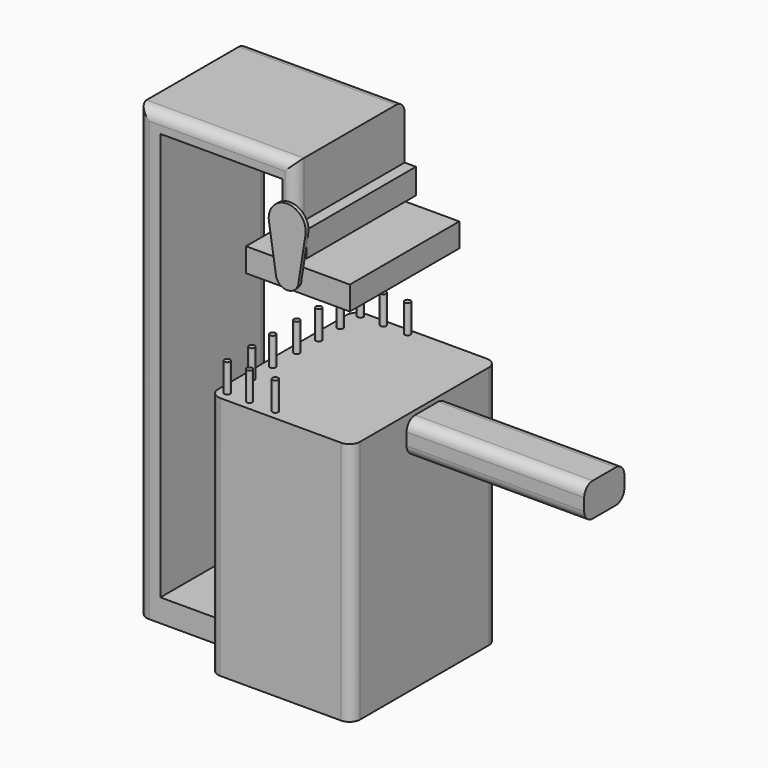
from build123d import *

# Parameters (mm, degrees)
F0_W      = 14.1155663878
F0_H      = 9.4103775918
F1_DEPTH  = 50
F2_W      = 51.2617919594
F2_H      = 68.8443407416
F3_DEPTH  = 40
F4_W      = 38.3844356984
F4_H      = 6.4386762679
F5_DEPTH  = 25
F6_W      = 6.2752501667
F6_H      = 38.3844356984
F7_DEPTH  = 120
F8_W      = 38.3844356984
F8_H      = 5.1532968879
F9_DEPTH  = 38
F10_W     = 3.5778277665
F10_H     = 38.3844356984
F11_DEPTH = 15
F12_W     = 3.5778277665
F12_H     = 4.6407681704
F13_DEPTH = 38.41
F14_W     = 29.2216986418
F14_H     = 6.686322391
F15_DEPTH = 38.5
F16_R     = 0.8165203792
F17_DEPTH = 8
F19_DEPTH = 1
F20_R     = 3


with BuildPart() as f1:
    # F0 (on Right) → F1 (new body)
    with BuildSketch(Plane.YZ):
        with Locations((0.3714626655, -0.0025788322)):
            Rectangle(F0_W, F0_H)
    extrude(amount=F1_DEPTH)

    # F2 (on face) → F3 (join)
    with BuildSketch(Plane(origin=(0, 0, 0), x_dir=(0, -1, 0), z_dir=(-1, 0, 0))):
        with Locations((0.3714608029, -28.4813530743)):
            Rectangle(F2_W, F2_H)
    extrude(amount=F3_DEPTH)

    # F4 (on face) → F5 (join)
    with BuildSketch(Plane(origin=(-40, 0, 0), x_dir=(0, -1, 0), z_dir=(-1, 0, 0))):
        with Locations((0.6842287257, -56.2172029167)):
            Rectangle(F4_W, F4_H)
    extrude(amount=F5_DEPTH)

    # F6 (on face) → F7 (join)
    with BuildSketch(Plane.XY.offset(-52.9978647828)):
        with Locations((-61.8623749167, -0.6842287257)):
            Rectangle(F6_W, F6_H)
    extrude(amount=F7_DEPTH)

    # F8 (on face) → F9 (join)
    with BuildSketch(Plane.YZ.offset(-58.7247498333)):
        with Locations((-0.6842287257, 64.4254867733)):
            Rectangle(F8_W, F8_H)
    extrude(amount=F9_DEPTH)

    # F10 (on face) → F11 (join)
    with BuildSketch(Plane(origin=(0, 0, 61.8488383293), x_dir=(1, 0, 0), z_dir=(0, 0, -1))):
        with Locations((-22.5136637166, 0.6842287257)):
            Rectangle(F10_W, F10_H)
    extrude(amount=F11_DEPTH)

    # F12 (on face) → F13 (join)
    with BuildSketch(Plane.XZ.offset(19.8764465749)):
        Polygon((-24.3025775999, 51.4896064997), (-27.0836036652, 51.4896064997), (-27.0836036652, 44.3622171879), (-17.5488386303, 44.3622171879), (-17.5488386303, 51.4896064997), (-20.7247498333, 51.4896064997), (-20.7247498333, 46.8488383293), (-24.3025775999, 46.8488383293), align=None)
        with Locations((-22.5136637166, 49.1692224145)):
            Rectangle(F12_W, F12_H)
    extrude(amount=-F13_DEPTH)

    # F16 (on face) → F17 (join)
    with BuildSketch(Plane.XY.offset(5.9408172965)):
        with Locations((-37.3312607408, 23.7445700914)):
            Circle(F16_R)
        with Locations((-30.7396166027, 23.5925223678)):
            Circle(F16_R)
        with Locations((-23.9719599485, 23.6466173083)):
            Circle(F16_R)
        with Locations((-37.4450609088, 16.7587026954)):
            Circle(F16_R)
        with Locations((-37.426199764, 9.2057716101)):
            Circle(F16_R)
        with Locations((-37.4512858689, 1.5258083586)):
            Circle(F16_R)
        with Locations((-37.3307578266, -23.0821233708)):
            Circle(F16_R)
        with Locations((-37.3979955912, -7.0219798945)):
            Circle(F16_R)
        with Locations((-37.2774675488, -14.4946947694)):
            Circle(F16_R)
        with Locations((-31.0100317001, -23.1726877391)):
            Circle(F16_R)
        with Locations((-23.6578416079, -23.2932139188)):
            Circle(F16_R)
    extrude(amount=F17_DEPTH)

    # F20
    f20_edges = [f1.edges().sort_by_distance(p)[0] for p in [
        (-65, -19.876447, 3.782797),
        (-42.862375, -19.876447, 67.002135),
        (-20.72475, -19.876447, 59.245871),
        (-40, -26.002357, -28.481353),
        (25, -6.686321, 4.70261),
        (25, -6.686321, -4.707768),
        (25, 7.429246, -4.707768),
        (25, 7.429246, 4.70261),
        (-40, 25.259435, -28.481353),
        (0, 25.259435, -28.481353),
        (0, -26.002357, -28.481353),
        (-58.72475, 18.507989, 4.425487),
        (-42.862375, 18.507989, 67.002135),
        (-65, 18.507989, 3.782797),
    ]]
    fillet(f20_edges, radius=F20_R)


with BuildPart() as f15:
    # F14 (on face) → F15 (new body)
    with BuildSketch(Plane.XZ.offset(19.8764465749)):
        with Locations((-20.0252532959, 38.5056771338)):
            Rectangle(F14_W, F14_H)
    extrude(amount=-F15_DEPTH)


with BuildPart() as f19:
    # F18 (on face) → F19 (new body)
    with BuildSketch(Plane.XZ.offset(19.8764465749)):
        with BuildLine():
            ThreePointArc((-17.0973843084, 50.8105079987), (-17.0500270651, 51.2136435714), (-17.03420929, 51.6192428768))
            ThreePointArc((-17.03420929, 51.6192428768), (-22.6446186845, 56.8117772873), (-27.3882469123, 50.8170213778))
            ThreePointArc((-27.3882469123, 50.8170213778), (-22.2456021518, 46.4111474096), (-17.0973843084, 50.8105079987))
        make_face()
        with BuildLine():
            ThreePointArc((-17.0973843084, 50.8105079987), (-22.2456021518, 46.4111474096), (-27.3882469123, 50.8170213778))
            Line((-27.3882469123, 50.8170213778), (-25.4689818412, 38.5056771338))
            ThreePointArc((-25.4689818412, 38.5056771338), (-22.2995427044, 41.8483309556), (-19.0136004239, 38.6201329529))
            Line((-19.0136004239, 38.6201329529), (-17.0973843084, 50.8105079987))
        make_face()
        with BuildLine():
            ThreePointArc((-19.0136004239, 38.6201329529), (-22.2995427044, 41.8483309556), (-25.4689818412, 38.5056771338))
            ThreePointArc((-25.4689818412, 38.5056771338), (-22.1850688963, 35.3919349503), (-19.0136004239, 38.6201329529))
        make_face()
    extrude(amount=F19_DEPTH)


solid = Compound([f1.part, f15.part, f19.part])
